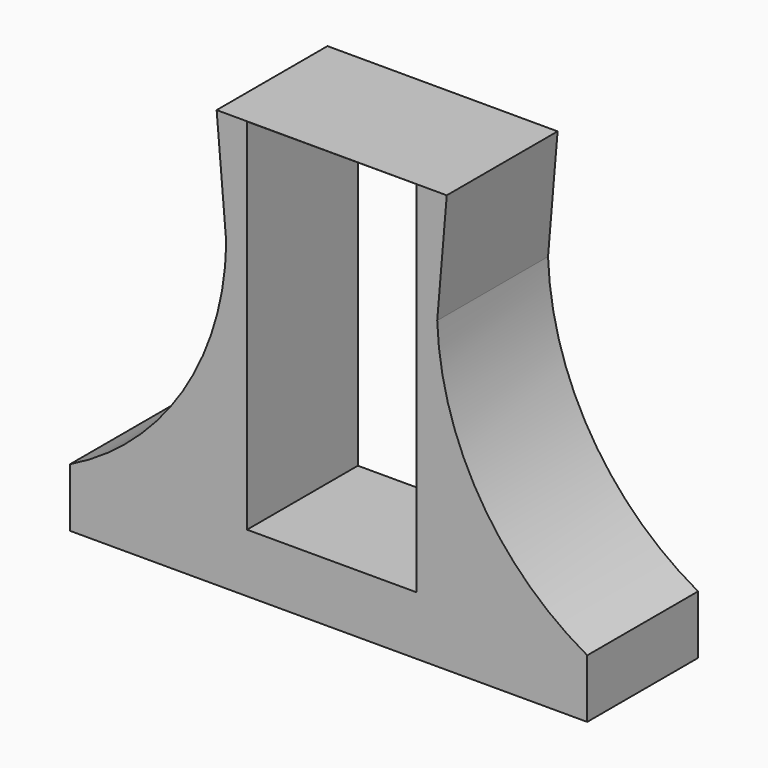
from build123d import *

# Parameters (mm, degrees)
F1_DEPTH = 25.4


with BuildPart() as f1:
    # F0 (on Front) → F1 (new body)
    with BuildSketch(Plane.XZ):
        Polygon((0, -55.831797), (0, -45.085926), (-15.534788, -45.085926), (-48.005998, -45.085926), (-48.005998, -55.831797), align=None)
        Polygon((15.534788, -45.085926), (0, -45.085926), (0, -55.831797), (46.837971, -55.831797), (46.837971, -45.085926), align=None)
        Polygon((-19.346434, 0), (-15.534788, -45.085926), (-15.534788, 20.79092), (0, 20.79092), (15.534788, 20.79092), (15.534788, -45.085926), (19.331818, 0), (21.082782, 20.790943), (-21.107703, 20.833118), align=None)
        with BuildLine():
            Line((-48.005998, -45.085926), (-15.534788, -45.085926))
            Line((-15.534788, -45.085926), (-19.346434, 0))
            ThreePointArc((-19.346434, 0), (-27.335605, -26.57347), (-48.005998, -45.085926))
        make_face()
        with BuildLine():
            Line((19.331818, 0), (15.534788, -45.085926))
            Line((15.534788, -45.085926), (46.837971, -45.085926))
            ThreePointArc((46.837971, -45.085926), (27.163372, -26.155582), (19.331818, 0))
        make_face()
    extrude(amount=F1_DEPTH)


solid = f1.part
